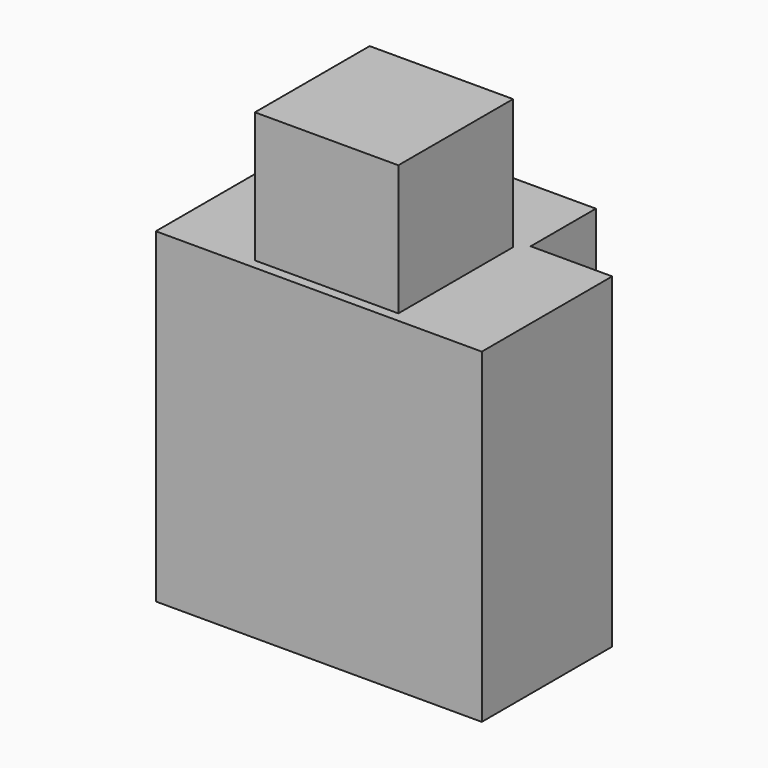
from build123d import *

# Parameters (mm, degrees)
BOX_W              = 10
BOX_H              = 10
BOX_DEPTH          = 10
SKETCH_W           = 4.4
SKETCH_H           = 4.4
PAD_DEPTH          = 4
PAD_FACE4_W        = 10
PAD_FACE4_H        = 10
POCKET_DEPTH       = 2.5
POCKET_FACE5_W     = 10
POCKET_FACE5_H     = 10
POCKET001_DEPTH    = 2.5
SKETCH001_W        = 5
SKETCH001_H        = 10
PAD001_DEPTH       = 10
SKETCH002_W        = 4.4
SKETCH002_H        = 4.4
PAD002_DEPTH       = 4
PAD002_FACE22_W    = 4.4
PAD002_FACE22_H    = 4.4
POCKET002_DEPTH    = 5
POCKET002_FACE16_W = 5
POCKET002_FACE16_H = 10
POCKET003_DEPTH    = 7.5


with BuildPart() as part:
    # Box → Box (new body)
    with BuildSketch(Plane.XY):
        with Locations((5, 5)):
            Rectangle(BOX_W, BOX_H)
    extrude(amount=BOX_DEPTH)

    # Sketch (on Face6 of BaseFeature) → Pad (new body)
    with BuildSketch(Plane.XY.offset(10)):
        with Locations((5, 5)):
            Rectangle(SKETCH_W, SKETCH_H)
    extrude(amount=PAD_DEPTH)

    # Pad Face4 → Pocket (cut)
    with BuildSketch(Plane(origin=(5, 10, 5), x_dir=(1, 0, 0), z_dir=(0, 1, 0))):
        Rectangle(PAD_FACE4_W, PAD_FACE4_H)
    extrude(amount=-POCKET_DEPTH, mode=Mode.SUBTRACT)

    # Pocket Face5 → Pocket001 (cut)
    with BuildSketch(Plane(origin=(5, 0, 5), x_dir=(-1, 0, 0), z_dir=(0, -1, 0))):
        Rectangle(POCKET_FACE5_W, POCKET_FACE5_H)
    extrude(amount=-POCKET001_DEPTH, mode=Mode.SUBTRACT)

    # Sketch001 (on Face3 of Pocket001) → Pad001 (join)
    with BuildSketch(Plane(origin=(0, 7.5, 0), x_dir=(-1, 0, 0), z_dir=(0, 1, 0))):
        with Locations((-5, 5)):
            Rectangle(SKETCH001_W, SKETCH001_H)
    extrude(amount=PAD001_DEPTH)

    # Sketch002 (on Face6 of Pad001) → Pad002 (join)
    with BuildSketch(Plane.XY.offset(10)):
        with Locations((5, 12.5)):
            Rectangle(SKETCH002_W, SKETCH002_H)
    extrude(amount=PAD002_DEPTH)

    # Pad002 Face22 → Pocket002 (cut)
    with BuildSketch(Plane(origin=(5, 12.5, 14), x_dir=(0, 1, 0), z_dir=(0, 0, 1))):
        Rectangle(PAD002_FACE22_W, PAD002_FACE22_H)
    extrude(amount=-POCKET002_DEPTH, mode=Mode.SUBTRACT)

    # Pocket002 Face16 → Pocket003 (cut)
    with BuildSketch(Plane(origin=(5, 17.5, 5), x_dir=(1, 0, 0), z_dir=(0, 1, 0))):
        Rectangle(POCKET002_FACE16_W, POCKET002_FACE16_H)
    extrude(amount=-POCKET003_DEPTH, mode=Mode.SUBTRACT)


solid = part.part
